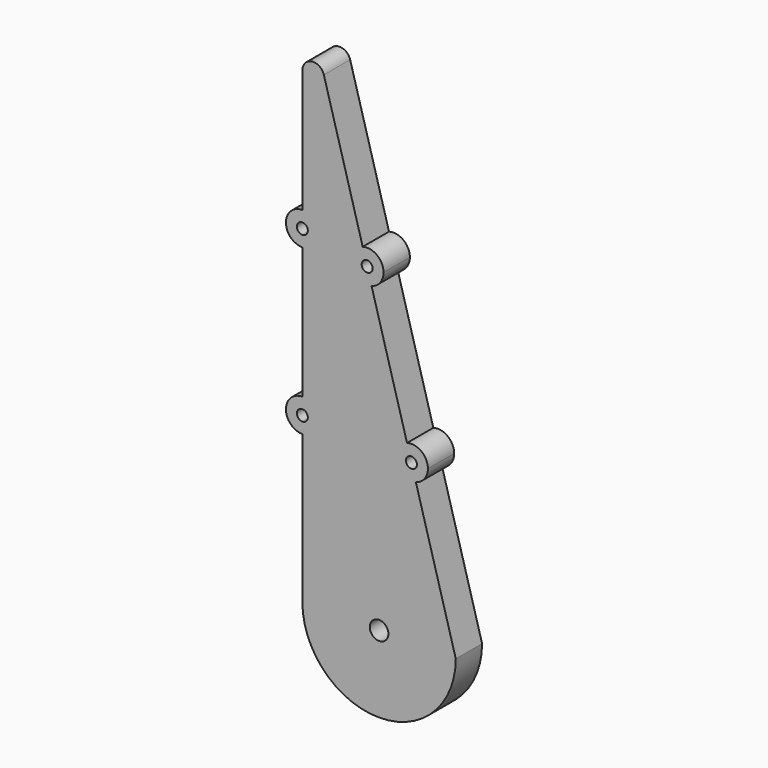
from build123d import *

# Parameters (mm, degrees)
F0_R     = 0.85
F1_DEPTH = 3


with BuildPart() as f1:
    # F0 (on Front) → F1 (new body)
    with BuildSketch(Plane.XZ):
        with BuildLine():
            ThreePointArc((-7, 16.5), (-8.5, 15), (-7, 13.5))
            Line((-7, 13.5), (-7, 14.5))
            ThreePointArc((-7, 14.5), (-7.5, 15), (-7, 15.5))
            Line((-7, 15.5), (-7, 16.5))
        make_face()
        with BuildLine():
            ThreePointArc((-7, 31.5), (-8.5, 30), (-7, 28.5))
            Line((-7, 28.5), (-7, 29.5))
            ThreePointArc((-7, 29.5), (-7.5, 30), (-7, 30.5))
            Line((-7, 30.5), (-7, 31.5))
        make_face()
        with BuildLine():
            Line((3.09036608, 13.9629782859), (3.3599960055, 13.0000142661))
            ThreePointArc((3.3599960055, 13.0000142661), (4.1506802593, 13.5380021699), (4.4555511172, 14.4444602957))
            ThreePointArc((4.4555511172, 14.4444602957), (3.862009243, 15.6395894378), (2.5511062289, 15.8889063253))
            Line((2.5511062289, 15.8889063253), (2.8207361544, 14.9259423056))
            ThreePointArc((2.8207361544, 14.9259423056), (3.2577038258, 14.8428366764), (3.4555511172, 14.4444602957))
            ThreePointArc((3.4555511172, 14.4444602957), (3.3539274979, 14.1423075871), (3.09036608, 13.9629782859))
        make_face()
        with BuildLine():
            Line((-0.9540828028, 28.4074385816), (-0.6844528773, 27.4444745619))
            ThreePointArc((-0.6844528773, 27.4444745619), (0.1062313765, 27.9824624656), (0.4111022344, 28.8889205914))
            ThreePointArc((0.4111022344, 28.8889205914), (-0.1824396398, 30.0840497335), (-1.4933426539, 30.333366621))
            Line((-1.4933426539, 30.333366621), (-1.2237127284, 29.3704026013))
            ThreePointArc((-1.2237127284, 29.3704026013), (-0.786745057, 29.2872969721), (-0.5888977656, 28.8889205914))
            ThreePointArc((-0.5888977656, 28.8889205914), (-0.6905213849, 28.5867678828), (-0.9540828028, 28.4074385816))
        make_face()
        with BuildLine():
            ThreePointArc((5.9821958457, 3.6350148368), (-1.8874094786, 6.740748138), (-7, 0))
            ThreePointArc((-7, 0), (0, -7), (7, 0))
            Line((7, 0), (5.9821958457, 3.6350148368))
        make_face()
        Circle(F0_R, mode=Mode.SUBTRACT)
        with BuildLine():
            Line((-7, 14.5), (-7, 13.5))
            ThreePointArc((-7, 13.5), (-5.9393398282, 13.9393398282), (-5.5, 15))
            ThreePointArc((-5.5, 15), (-5.9393398282, 16.0606601718), (-7, 16.5))
            Line((-7, 16.5), (-7, 15.5))
            ThreePointArc((-7, 15.5), (-6.6464466094, 15.3535533906), (-6.5, 15))
            ThreePointArc((-6.5, 15), (-6.6464466094, 14.6464466094), (-7, 14.5))
        make_face()
        with BuildLine():
            Line((-7, 29.5), (-7, 28.5))
            ThreePointArc((-7, 28.5), (-5.9393398282, 28.9393398282), (-5.5, 30))
            ThreePointArc((-5.5, 30), (-5.9393398282, 31.0606601718), (-7, 31.5))
            Line((-7, 31.5), (-7, 30.5))
            ThreePointArc((-7, 30.5), (-6.6464466094, 30.3535533906), (-6.5, 30))
            ThreePointArc((-6.5, 30), (-6.6464466094, 29.6464466094), (-7, 29.5))
        make_face()
        with BuildLine():
            ThreePointArc((2.5511062289, 15.8889063253), (1.5111050876, 14.0400154074), (3.3599960055, 13.0000142661))
            Line((3.3599960055, 13.0000142661), (3.09036608, 13.9629782859))
            ThreePointArc((3.09036608, 13.9629782859), (2.4740691073, 14.309645333), (2.8207361544, 14.9259423056))
            Line((2.8207361544, 14.9259423056), (2.5511062289, 15.8889063253))
        make_face()
        with BuildLine():
            ThreePointArc((-1.4933426539, 30.333366621), (-2.5333437952, 28.4844757031), (-0.6844528773, 27.4444745619))
            Line((-0.6844528773, 27.4444745619), (-0.9540828028, 28.4074385816))
            ThreePointArc((-0.9540828028, 28.4074385816), (-1.5703797755, 28.7541056287), (-1.2237127284, 29.3704026013))
            Line((-1.2237127284, 29.3704026013), (-1.4933426539, 30.333366621))
        make_face()
        with BuildLine():
            Line((-7, 13.5), (-7, 0))
            ThreePointArc((-7, 0), (-1.8874094786, 6.740748138), (5.9821958457, 3.6350148368))
            Line((5.9821958457, 3.6350148368), (3.3599960055, 13.0000142661))
            ThreePointArc((3.3599960055, 13.0000142661), (1.5111050876, 14.0400154074), (2.5511062289, 15.8889063253))
            Line((2.5511062289, 15.8889063253), (-0.6844528773, 27.4444745619))
            ThreePointArc((-0.6844528773, 27.4444745619), (-2.5333437952, 28.4844757031), (-1.4933426539, 30.333366621))
            Line((-1.4933426539, 30.333366621), (-5.0370359803, 42.9894142153))
            ThreePointArc((-5.0370359803, 42.9894142153), (-6.1360808221, 43.7104820287), (-7, 42.7197842898))
            Line((-7, 42.7197842898), (-7, 31.5))
            ThreePointArc((-7, 31.5), (-5.9393398282, 31.0606601718), (-5.5, 30))
            ThreePointArc((-5.5, 30), (-5.9393398282, 28.9393398282), (-7, 28.5))
            Line((-7, 28.5), (-7, 16.5))
            ThreePointArc((-7, 16.5), (-5.9393398282, 16.0606601718), (-5.5, 15))
            ThreePointArc((-5.5, 15), (-5.9393398282, 13.9393398282), (-7, 13.5))
        make_face()
    extrude(amount=F1_DEPTH)


solid = f1.part
